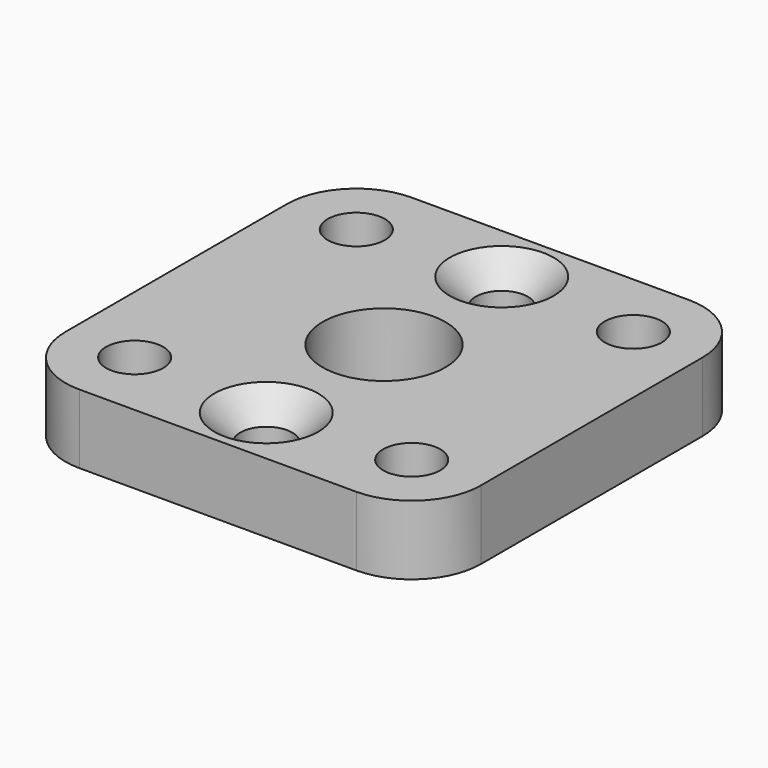
from build123d import *

# Parameters (mm, degrees)
F0_R     = 1.65
F0_R_2   = 1.5
F0_R_3   = 3.55
F1_DEPTH = 4
F2_SIZE2 = 1.5
F2_SIZE  = 1.5


with BuildPart() as f1:
    # F0 (on Top) → F1 (new body)
    with BuildSketch(Plane.XY):
        with BuildLine():
            ThreePointArc((12, 8), (10.828427, 10.828427), (8, 12))
            Line((8, 12), (-8, 12))
            ThreePointArc((-8, 12), (-10.828427, 10.828427), (-12, 8))
            Line((-12, 8), (-12, -8))
            ThreePointArc((-12, -8), (-10.828427, -10.828427), (-8, -12))
            Line((-8, -12), (8, -12))
            ThreePointArc((8, -12), (10.828427, -10.828427), (12, -8))
            Line((12, -8), (12, 8))
        make_face()
        with Locations((-8, -8)):
            Circle(F0_R, mode=Mode.SUBTRACT)
        with Locations((0, -8.5)):
            Circle(F0_R_2, mode=Mode.SUBTRACT)
        with Locations((8, -8)):
            Circle(F0_R, mode=Mode.SUBTRACT)
        with Locations((-8, 8)):
            Circle(F0_R, mode=Mode.SUBTRACT)
        Circle(F0_R_3, mode=Mode.SUBTRACT)
        with Locations((0, 8.5)):
            Circle(F0_R_2, mode=Mode.SUBTRACT)
        with Locations((8, 8)):
            Circle(F0_R, mode=Mode.SUBTRACT)
    extrude(amount=F1_DEPTH)

    # F2
    f2_edges = [f1.edges().sort_by_distance(p)[0] for p in [
        (-1.5, 8.5, 4),
        (-1.5, -8.5, 4),
    ]]
    chamfer(f2_edges, length=F2_SIZE, length2=F2_SIZE2)


solid = f1.part
